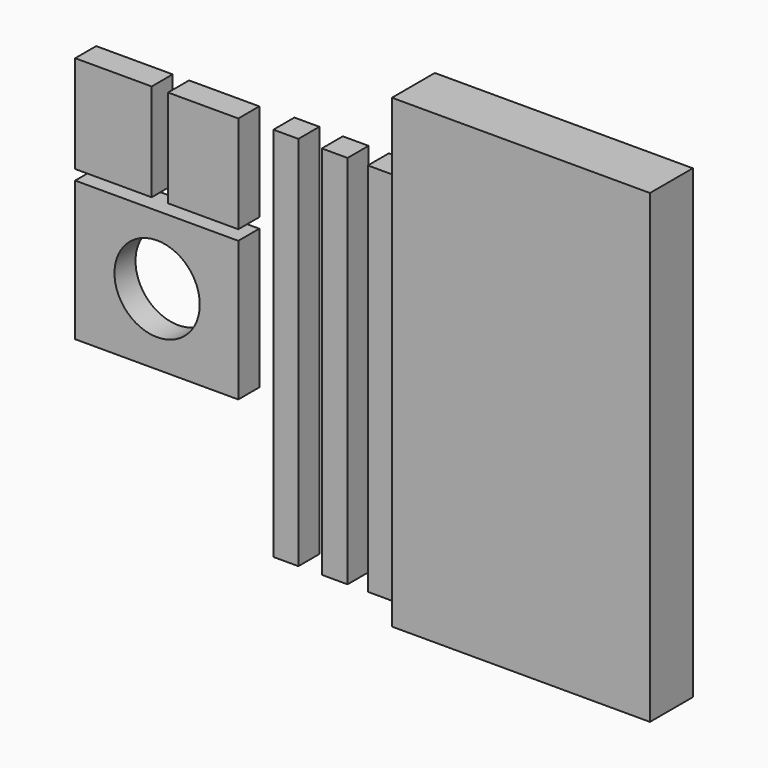
from build123d import *

# Parameters (mm, degrees)
F0_W     = 36.256648
F0_H     = 46.245723
F0_W_2   = 33.296924
F0_W_3   = 11.838905
F0_H_2   = 178.323515
F0_W_4   = 12.208875
F0_H_3   = 177.953549
F0_W_5   = 11.838906
F0_W_6   = 77.322851
F0_H_4   = 66.223875
F0_R     = 20.209753
F1_DEPTH = 12.446
F0_W_7   = 122.303232
F0_H_5   = 220.728188
F2_DEPTH = 25.4


with BuildPart() as f1:
    # F0 (on Front) → F1 (new body)
    with BuildSketch(Plane.XZ):
        with Locations((-73.253218, 37.181565)):
            Rectangle(F0_W, F0_H)
        with Locations((-30.707153, 37.181565)):
            Rectangle(F0_W_2, F0_H)
        with Locations((8.509221, -28.1174)):
            Rectangle(F0_W_3, F0_H_2)
        with Locations((31.632082, -28.302383)):
            Rectangle(F0_W_4, F0_H_3)
        with Locations((53.275086, -28.302383)):
            Rectangle(F0_W_5, F0_H_3)
        with Locations((-52.720116, -23.86279)):
            Rectangle(F0_W_6, F0_H_4)
        with Locations((-52.535135, -23.307843)):
            Circle(F0_R, mode=Mode.SUBTRACT)
    extrude(amount=F1_DEPTH)


with BuildPart() as f2:
    # F0 (on Front) → F2 (new body)
    with BuildSketch(Plane.XZ):
        with Locations((130.300738, -9.068355)):
            Rectangle(F0_W_7, F0_H_5)
    extrude(amount=F2_DEPTH)


solid = Compound([f1.part, f2.part])
